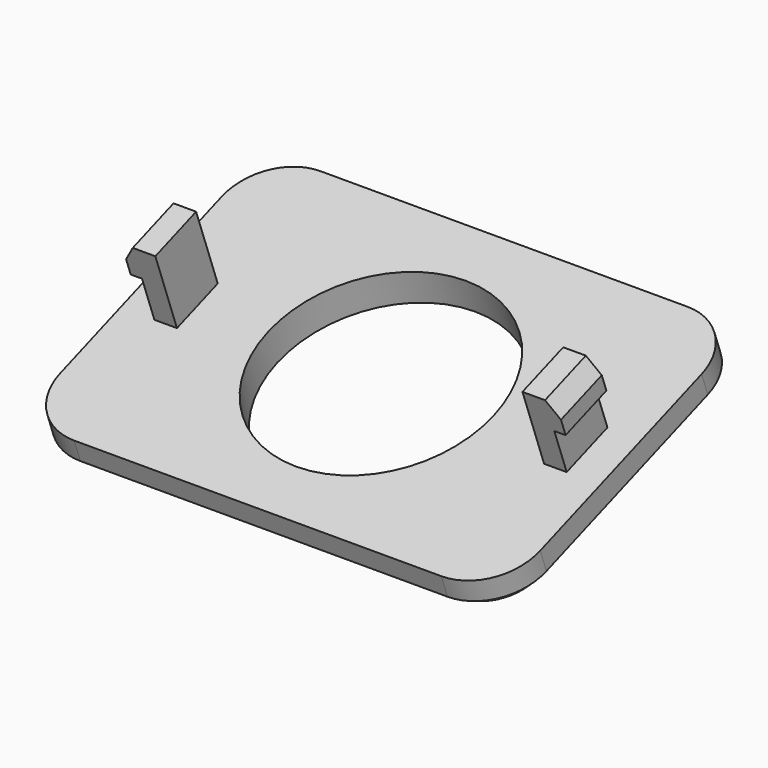
from build123d import *

# Parameters (mm, degrees)
SKETCH144_W             = 42.5
SKETCH144_H             = 29
SKETCH144_R             = 10
PAD034_DEPTH            = 3
PAD036_DEPTH            = 2.4
FILLET021_R             = 5
CHAMFER004_SIZE         = 1
BODY013_PLACEMENT_ANGLE = 20


with BuildPart() as part:
    # Sketch144 → Pad034 (new body)
    with BuildSketch(Plane.XY):
        Rectangle(SKETCH144_W, SKETCH144_H)
        Circle(SKETCH144_R, mode=Mode.SUBTRACT)
    extrude(amount=PAD034_DEPTH)

    # Sketch146 (on Face3 of Pad034) → Pad036 (join, symmetric)
    with BuildSketch(Plane(origin=(0, 0, 0), x_dir=(-1, 0, 0), z_dir=(0, 1, 0))):
        Polygon((16.25, 3), (18.25, 3), (18.25, 7), (19.25, 7), (19.25, 8.5), (18.25, 10), (16.25, 10), align=None)
    pad036 = extrude(amount=PAD036_DEPTH, both=True)

    # Mirrored010: Pad036 across Sketch146 V_Axis
    add(pad036.mirror(Plane(origin=(0, 0, 0), x_dir=(0, 1, 0), z_dir=(-1, 0, 0))))

    # Fillet021
    fillet021_edges = [part.edges().sort_by_distance(p)[0] for p in [
        (21.25, 14.5, 1.5),
        (-21.25, 14.5, 1.5),
        (-21.25, -14.5, 1.5),
        (21.25, -14.5, 1.5),
    ]]
    fillet(fillet021_edges, radius=FILLET021_R)

    # Chamfer004
    chamfer004_edges = [part.edges().sort_by_distance(p)[0] for p in [
        (0, 14.5, 0),
    ]]
    chamfer(chamfer004_edges, length=CHAMFER004_SIZE)


with BuildPart() as part_1:
    # Body013 placement: moved
    add(part.part.moved(Location((-357.518507, 122.995147, 204.709932))).rotate(Axis((-357.518507, 122.995147, 204.709932), (1, 0, 0)), BODY013_PLACEMENT_ANGLE))


solid = part_1.part
